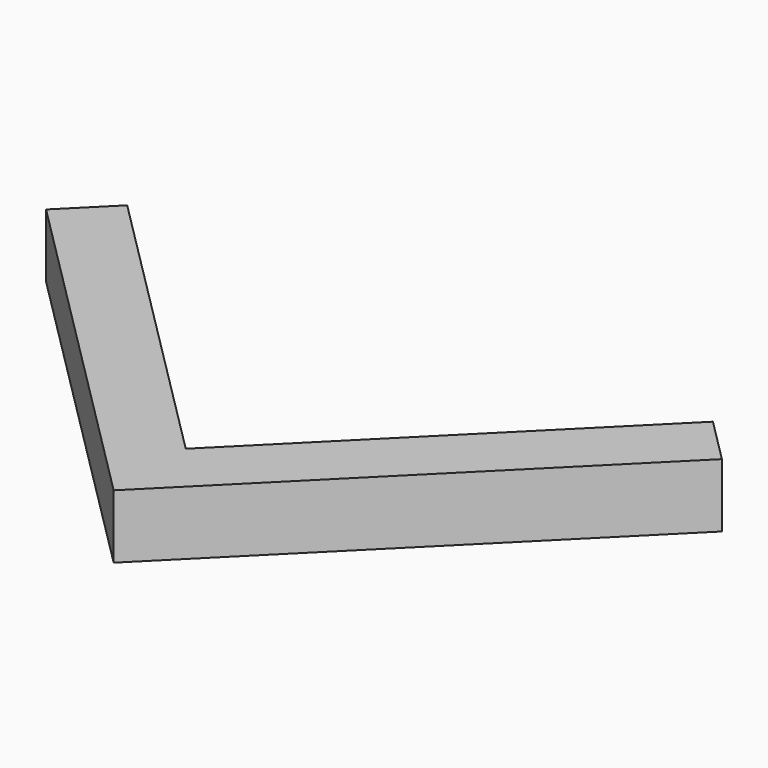
from build123d import *

# Parameters (mm, degrees)
BOX091_W                  = 7.5
BOX091_H                  = 1
BOX091_DEPTH              = 1
BOX089_W                  = 7.5
BOX089_H                  = 1
BOX089_DEPTH              = 1
FUSION019_PLACEMENT_ANGLE = 45


with BuildPart() as cube091:
    # Box091 → Box091 (new body)
    with BuildSketch(Plane.XY):
        with Locations((3.75, 0.5)):
            Rectangle(BOX091_W, BOX091_H)
    extrude(amount=BOX091_DEPTH)


with BuildPart() as obj1:
    # Box089 → Box089 (new body)
    with BuildSketch(Plane(origin=(1, 0, 0), x_dir=(0, 1, 0), z_dir=(0, 0, 1))):
        with Locations((3.75, 0.5)):
            Rectangle(BOX089_W, BOX089_H)
    extrude(amount=BOX089_DEPTH)

    # Fusion019: union Cube091
    add(cube091.part)


with BuildPart() as obj1_1:
    # Fusion019 placement: moved
    add(obj1.part.moved(Location((0, -15, 0))).rotate(Axis((0, -15, 0), (0, 0, 1)), FUSION019_PLACEMENT_ANGLE))


solid = obj1_1.part
